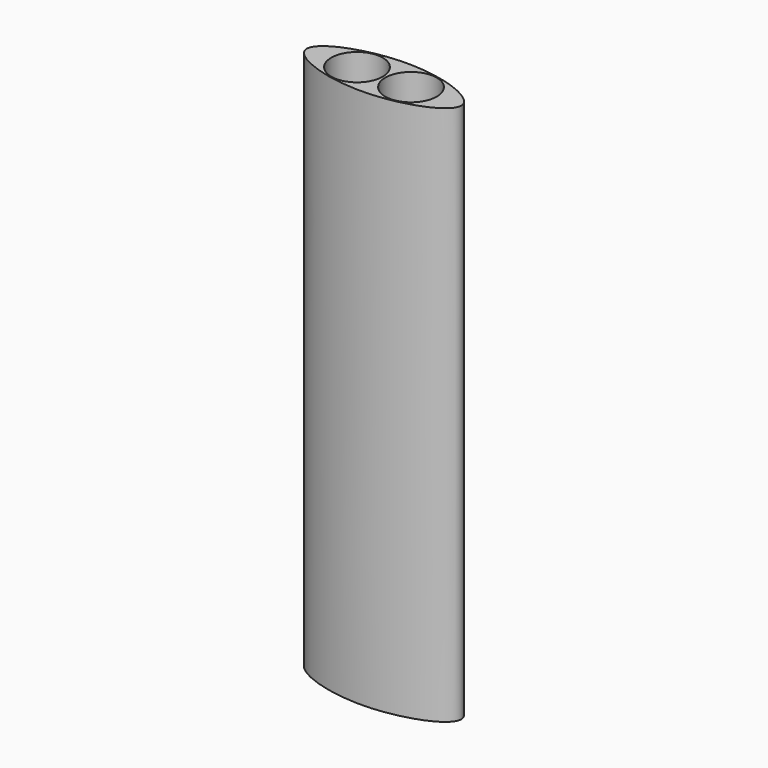
from build123d import *

# Parameters (mm, degrees)
F0_R     = 10
F1_DEPTH = 210


with BuildPart() as f1:
    # F0 (on Top) → F1 (new body)
    with BuildSketch(Plane.XY):
        with BuildLine():
            add(Edge.make_bspline(
                [(-59.9999987303, 0), (-60.0014599641, 5.750394804), (-30.0012894209, 17.2683179325), (14.9999998663, 0.0095543559), (-29.9987109502, -17.2316819716), (-59.9985376974, -5.7496040731), (-59.9999987303, 0)],
                knots=[0, 0, 0, 0, 0.2500171935, 0.5000171898, 0.7500171861, 1, 1, 1, 1], degree=3))
        make_face()
        with Locations((-40.4999991429, 0.0083320485)):
            Circle(F0_R, mode=Mode.SUBTRACT)
        with Locations((-19.4999995873, 0.0083320485)):
            Circle(F0_R, mode=Mode.SUBTRACT)
    extrude(amount=F1_DEPTH)


solid = f1.part
